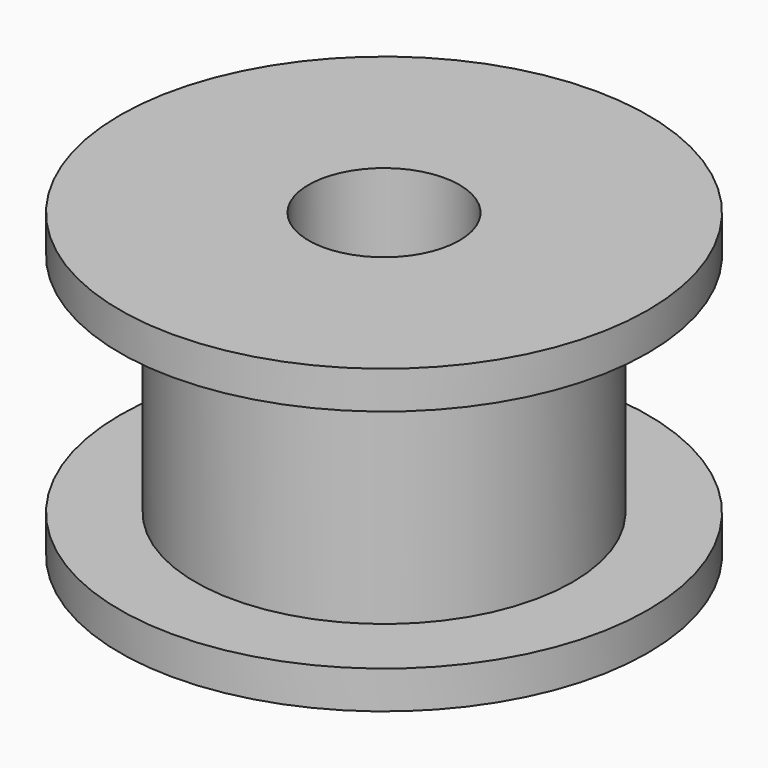
from build123d import *

# Parameters (mm, degrees)
F0_R     = 5
F0_R_2   = 2
F1_DEPTH = 8
F0_R_3   = 7
F2_DEPTH = 1
F3_R     = 7
F3_R_2   = 5
F4_DEPTH = 1


with BuildPart() as f1:
    # F0 (on Top) → F1 (new body)
    with BuildSketch(Plane.XY):
        Circle(F0_R)
        Circle(F0_R_2, mode=Mode.SUBTRACT)
    extrude(amount=F1_DEPTH)

    # F0 (on Top) → F2 (join)
    with BuildSketch(Plane.XY):
        Circle(F0_R_3)
        Circle(F0_R, mode=Mode.SUBTRACT)
    extrude(amount=F2_DEPTH)

    # F3 (on face) → F4 (join)
    with BuildSketch(Plane.XY.offset(8)):
        Circle(F3_R)
        Circle(F3_R_2, mode=Mode.SUBTRACT)
    extrude(amount=-F4_DEPTH)


solid = f1.part
